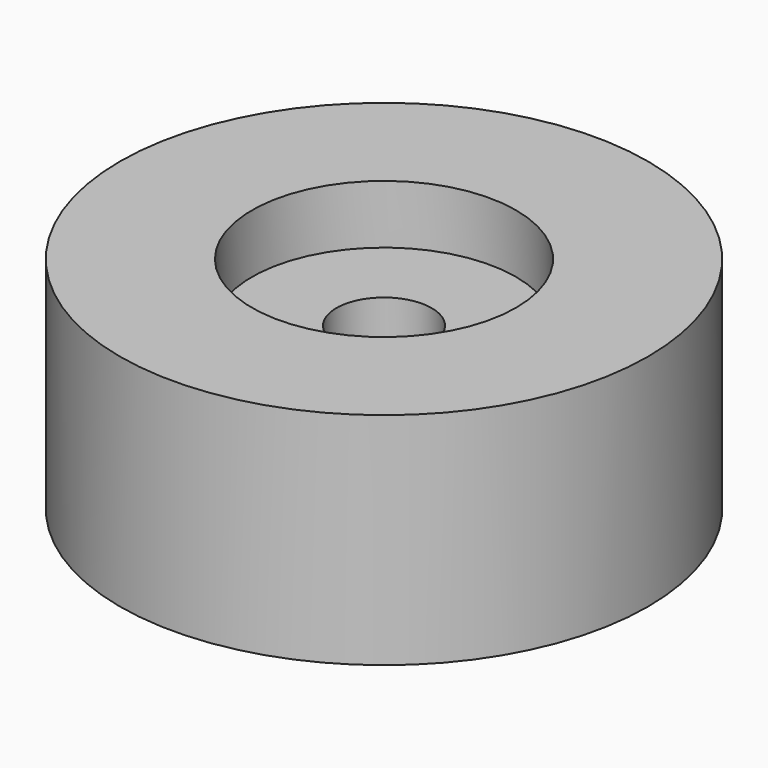
from build123d import *

# Parameters (mm, degrees)
F0_R     = 18
F1_DEPTH = 15
F2_R     = 9
F2_R_2   = 3.25
F3_DEPTH = 4
F4_DEPTH = 25
F5_R     = 9
F6_DEPTH = 4


with BuildPart() as f1:
    # F0 (on Top) → F1 (new body)
    with BuildSketch(Plane.XY):
        Circle(F0_R)
    extrude(amount=F1_DEPTH)

    # F2 (on face) → F3 (cut)
    with BuildSketch(Plane.XY.offset(15)):
        Circle(F2_R)
        Circle(F2_R_2, mode=Mode.SUBTRACT)
    extrude(amount=-F3_DEPTH, mode=Mode.SUBTRACT)

    # F2 (on face) → F4 (cut)
    with BuildSketch(Plane.XY.offset(15)):
        Circle(F2_R_2)
    extrude(amount=-F4_DEPTH, mode=Mode.SUBTRACT)

    # F5 (on face) → F6 (cut)
    with BuildSketch(Plane.XY):
        Circle(F5_R)
    extrude(amount=F6_DEPTH, mode=Mode.SUBTRACT)


solid = f1.part
